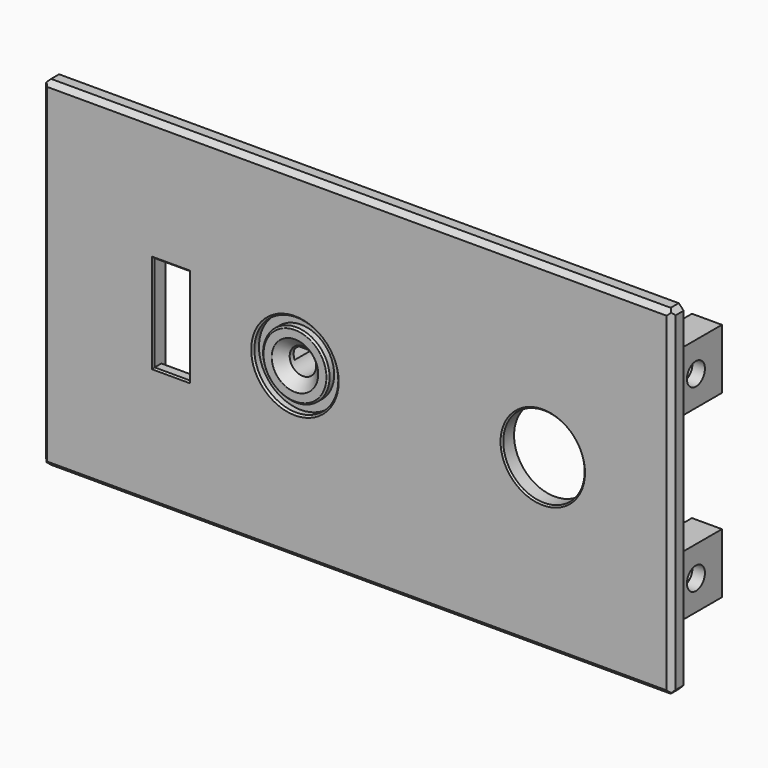
from build123d import *

# Parameters (mm, degrees)
SKETCH010_W     = 126
SKETCH010_H     = 68
PAD006_DEPTH    = 3
SKETCH011_W     = 6
SKETCH011_H     = 12
PAD007_DEPTH    = 13.5
SKETCH012_R     = 2.25
POCKET004_DEPTH = 122.851
POCKET005_DEPTH = 3.5
CHAMFER003_SIZE = 1
CHAMFER004_SIZE = 1
CHAMFER007_SIZE = 1
SKETCH024_R     = 2.65
SKETCH024_R_2   = 8.15
SKETCH024_W     = 7.05
SKETCH024_H     = 19.25
POCKET012_DEPTH = 16.501
POCKET013_DEPTH = 1
CHAMFER010_SIZE = 2
SKETCH026_R     = 8.4
SKETCH026_R_2   = 6.65
POCKET014_DEPTH = 1.5
CHAMFER011_SIZE = 0.35
CHAMFER012_SIZE = 0.3
SKETCH030_R     = 5.15
SKETCH030_R_2   = 2.65
PAD012_DEPTH    = 4
SKETCH031_W     = 10.3
SKETCH031_H     = 2
POCKET016_DEPTH = 4
PAD016_DEPTH    = 4
FILLET003_R     = 0.1


with BuildPart() as part:
    # Sketch010 → Pad006 (new body)
    with BuildSketch(Plane.XZ):
        with Locations((0, 34)):
            Rectangle(SKETCH010_W, SKETCH010_H)
    extrude(amount=PAD006_DEPTH)

    # Sketch011 (on Face5 of Pad006) → Pad007 (join)
    with BuildSketch(Plane(origin=(0, 0, 0), x_dir=(1, 0, 0), z_dir=(0, 1, 0))):
        with Locations((-56.85, -16)):
            Rectangle(SKETCH011_W, SKETCH011_H)
        with Locations((-56.85, -52)):
            Rectangle(SKETCH011_W, SKETCH011_H)
    pad007 = extrude(amount=PAD007_DEPTH)

    # Mirrored002: Pad007 across YZ
    add(pad007.mirror(Plane.YZ))

    # Sketch012 (on Face22 of Mirrored002) → Pocket004 (cut, through all)
    with BuildSketch(Plane(origin=(59.85, 0, 0), x_dir=(0, 0, 1), z_dir=(1, 0, 0))):
        with Locations((16, -7)):
            Circle(SKETCH012_R)
        with Locations((52, -7)):
            Circle(SKETCH012_R)
    extrude(amount=-POCKET004_DEPTH, mode=Mode.SUBTRACT)

    # Sketch013 (on Face10 of Pocket004) → Pocket005 (cut)
    with BuildSketch(Plane(origin=(-53.85, 0, 0), x_dir=(0, 0, 1), z_dir=(1, 0, 0))):
        Polygon((19.5, -9.020726), (19.5, -4.979274), (16, -2.958548), (12.5, -4.979274), (12.5, -9.020726), (16, -11.041452), align=None)
        Polygon((55.5, -9.020726), (55.5, -4.979274), (52, -2.958548), (48.5, -4.979274), (48.5, -9.020726), (52, -11.041452), align=None)
    pocket005 = extrude(amount=-POCKET005_DEPTH, mode=Mode.SUBTRACT)

    # Chamfer003
    chamfer003_edges = [part.edges().sort_by_distance(p)[0] for p in [
        (0, -3, 68),
        (63, -3, 34),
        (0, -3, 0),
        (-63, -3, 34),
    ]]
    chamfer(chamfer003_edges, length=CHAMFER003_SIZE)

    # Chamfer004
    chamfer004_edges = [part.edges().sort_by_distance(p)[0] for p in [
        (-63, -1, 68),
        (63, -1, 68),
    ]]
    chamfer(chamfer004_edges, length=CHAMFER004_SIZE)

    # Chamfer007
    chamfer007_edges = [part.edges().sort_by_distance(p)[0] for p in [
        (63, -1, 0),
        (-63, -1, 0),
    ]]
    chamfer(chamfer007_edges, length=CHAMFER007_SIZE)

    # Mirrored005: Pocket005 across YZ
    add(pocket005.mirror(Plane.YZ), mode=Mode.SUBTRACT)

    # Sketch024 (on Face62 of Mirrored005) → Pocket012 (cut, through all)
    with BuildSketch(Plane.XZ.offset(3)):
        with Locations((-12.4, 34)):
            Circle(SKETCH024_R)
        with Locations((37.2, 34)):
            Circle(SKETCH024_R_2)
        with Locations((-37.2, 34)):
            Rectangle(SKETCH024_W, SKETCH024_H)
    extrude(amount=-POCKET012_DEPTH, mode=Mode.SUBTRACT)

    # Sketch025 (on Face1 of Pocket012) → Pocket013 (cut)
    with BuildSketch(Plane(origin=(0, 0, 0), x_dir=(1, 0, 0), z_dir=(0, 1, 0))):
        Polygon((-40.725, -20.375), (-33.675, -20.375), (-33.675, -43.625), (-33.675, -47.625), (-40.725, -47.625), (-40.725, -24.375), align=None)
    extrude(amount=-POCKET013_DEPTH, mode=Mode.SUBTRACT)

    # Chamfer010
    chamfer010_edges = [part.edges().sort_by_distance(p)[0] for p in [
        (-15.05, -3, 34),
    ]]
    chamfer(chamfer010_edges, length=CHAMFER010_SIZE)

    # Sketch026 (on Face4 of Chamfer010) → Pocket014 (cut)
    with BuildSketch(Plane.XZ.offset(3)):
        with Locations((-12.4, 34)):
            Circle(SKETCH026_R)
        with Locations((-12.4, 34)):
            Circle(SKETCH026_R_2, mode=Mode.SUBTRACT)
    extrude(amount=-POCKET014_DEPTH, mode=Mode.SUBTRACT)

    # Chamfer011
    chamfer011_edges = [part.edges().sort_by_distance(p)[0] for p in [
        (-19.05, -3, 34),
        (-20.8, -3, 34),
    ]]
    chamfer(chamfer011_edges, length=CHAMFER011_SIZE)

    # Chamfer012
    chamfer012_edges = [part.edges().sort_by_distance(p)[0] for p in [
        (-37.2, -3, 24.375),
        (-40.725, -3, 34),
        (-33.675, -3, 34),
        (-37.2, -3, 43.625),
        (29.05, -3, 34),
    ]]
    chamfer(chamfer012_edges, length=CHAMFER012_SIZE)

    # Sketch030 (on Face3 of Chamfer012) → Pad012 (join)
    with BuildSketch(Plane(origin=(0, 0, 0), x_dir=(1, 0, 0), z_dir=(0, 1, 0))):
        with Locations((-12.4, -34)):
            Circle(SKETCH030_R)
        with Locations((-12.4, -34)):
            Circle(SKETCH030_R_2, mode=Mode.SUBTRACT)
    extrude(amount=PAD012_DEPTH)

    # Sketch031 (on Face83 of Pad012) → Pocket016 (cut)
    with BuildSketch(Plane(origin=(0, 4, 0), x_dir=(1, 0, 0), z_dir=(0, 1, 0))):
        with Locations((-12.4, -34)):
            Rectangle(SKETCH031_W, SKETCH031_H)
    extrude(amount=-POCKET016_DEPTH, mode=Mode.SUBTRACT)

    # Sketch035 (on Face3 of Pocket016) → Pad016 (join)
    with BuildSketch(Plane(origin=(0, 0, 0), x_dir=(1, 0, 0), z_dir=(0, 1, 0))):
        with BuildLine():
            ThreePointArc((-40, -53.5), (-41.5, -55), (-40, -56.5))
            Line((-40, -56.5), (40, -56.5))
            ThreePointArc((40, -56.5), (41.5, -55), (40, -53.5))
            Line((-40, -53.5), (40, -53.5))
        make_face()
        with BuildLine():
            ThreePointArc((-40, -10.5), (-41.5, -12), (-40, -13.5))
            Line((-40, -13.5), (40, -13.5))
            ThreePointArc((40, -13.5), (41.5, -12), (40, -10.5))
            Line((-40, -10.5), (40, -10.5))
        make_face()
    extrude(amount=PAD016_DEPTH)

    # Fillet003
    fillet003_edges = [part.edges().sort_by_distance(p)[0] for p in [
        (-18.7, -3, 34),
        (-17.05, -3, 34),
    ]]
    fillet(fillet003_edges, radius=FILLET003_R)


with BuildPart() as part_1:
    # Body003 placement: moved
    add(part.part.moved(Location((0, -66.95, 0))))


solid = part_1.part
